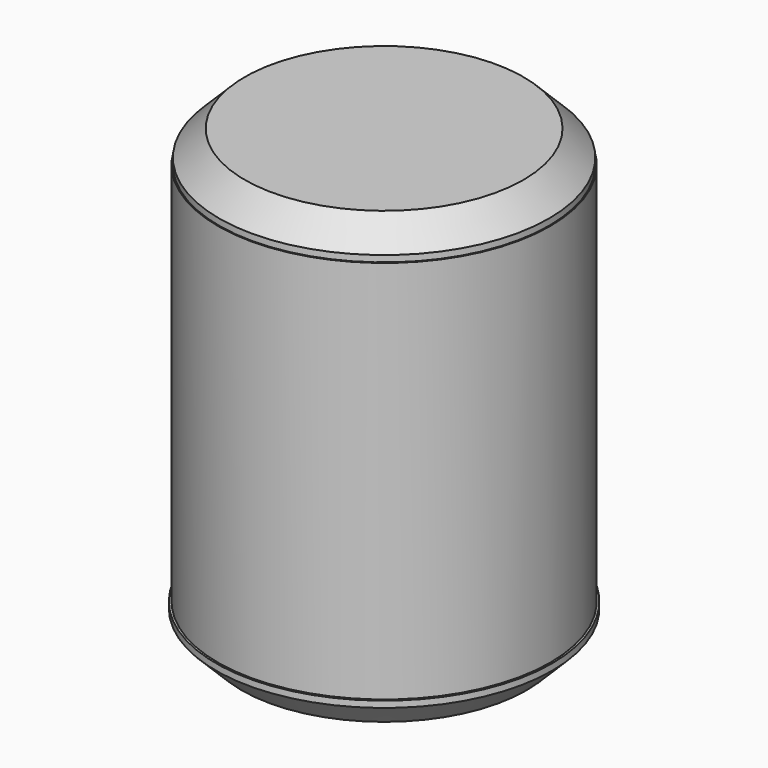
from build123d import *

# Parameters (mm, degrees)
F0_R     = 32.717526
F1_DEPTH = 6.35
F2_SIZE  = 5.08
F3_R     = 32.935812
F4_DEPTH = 76.2
F5_R     = 33.341524
F6_DEPTH = 6.35
F7_SIZE  = 5.08


with BuildPart() as f1:
    # F0 (on Top) → F1 (new body)
    with BuildSketch(Plane.XY):
        Circle(F0_R)
    extrude(amount=F1_DEPTH)

    # F2
    f2_edges = [f1.edges().sort_by_distance(p)[0] for p in [
        (-32.717526, 0, 6.35),
    ]]
    chamfer(f2_edges, length=F2_SIZE)

    # F3 (on face) → F4 (join)
    with BuildSketch(Plane(origin=(0, 0, 0), x_dir=(1, 0, 0), z_dir=(0, 0, -1))):
        Circle(F3_R)
    extrude(amount=F4_DEPTH)

    # F5 (on face) → F6 (join)
    with BuildSketch(Plane(origin=(0, 0, -76.2), x_dir=(1, 0, 0), z_dir=(0, 0, -1))):
        Circle(F5_R)
    extrude(amount=F6_DEPTH)

    # F7
    f7_edges = [f1.edges().sort_by_distance(p)[0] for p in [
        (-33.341524, 0, -82.55),
    ]]
    chamfer(f7_edges, length=F7_SIZE)


solid = f1.part
